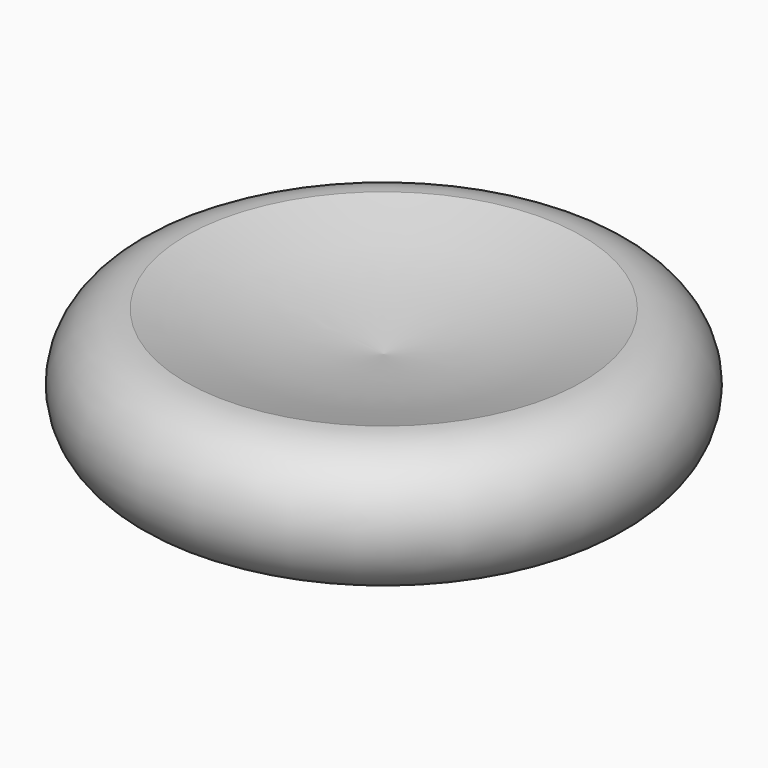
from build123d import *


with BuildPart() as f1:
    # F0 (on Front) → F1 (revolve)
    with BuildSketch(Plane.XZ):
        with BuildLine():
            Line((-30, 0), (0, 0))
            Line((0, 0), (0, 14))
            add(Edge.make_bspline(
                [(-30, 20), (-25.3184289045, 18.6238370195), (-15.7760706091, 15.8188299044), (-5.3241232692, 14.6138204409), (0, 14)],
                knots=[0, 0, 0, 0, 0.4906094438, 1, 1, 1, 1], degree=3))
            ThreePointArc((-30, 20), (-39.9829170044, 10), (-30, 0))
        make_face()
    revolve(axis=Axis((0, 0, 21.111712791), (0, 0, -1)))


solid = f1.part
